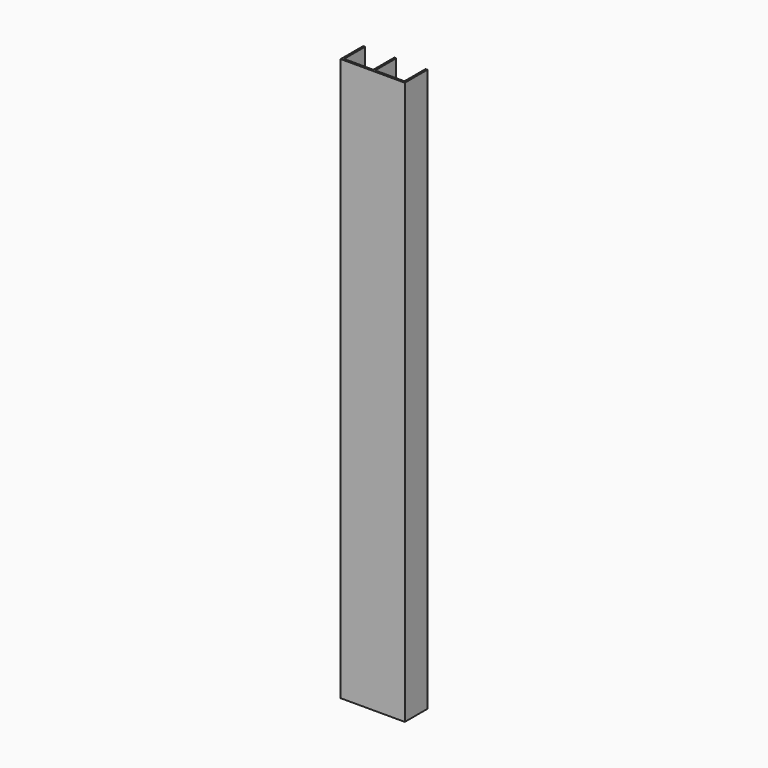
from build123d import *

# Parameters (mm, degrees)
PAD_DEPTH = 500


with BuildPart() as part:
    # Sketch → Pad (new body)
    with BuildSketch(Plane.XY):
        Polygon((-28.5, 25), (-28.5, 0), (28.5, 0), (28.5, 25), (26.833333, 25), (26.833333, 1.666667), (0.833333, 1.666667), (0.833333, 25), (-0.833333, 25), (-0.833333, 1.666667), (-26.833333, 1.666667), (-26.833333, 25), align=None)
    extrude(amount=PAD_DEPTH)


solid = part.part
